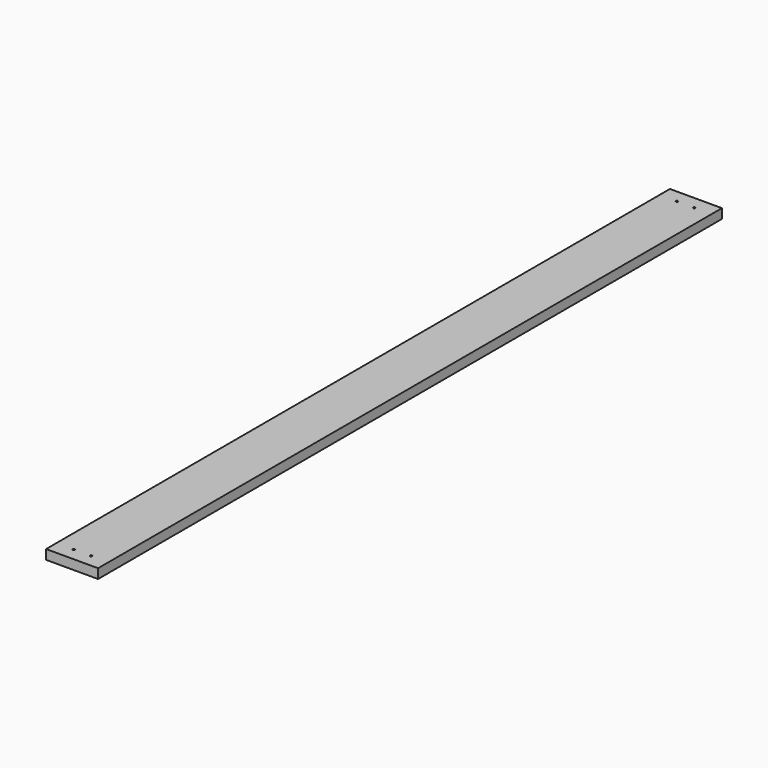
from build123d import *

# Parameters (mm, degrees)
F1_W     = 120
F1_H     = 1800
F2_DEPTH = 22
F4_D     = 5


with BuildPart() as f2:
    # F1 (on Top) → F2 (new body)
    with BuildSketch(Plane.XY):
        with Locations((0, 900)):
            Rectangle(F1_W, F1_H)
    extrude(amount=F2_DEPTH)

    # F4 (through all)
    with Locations(Plane.XY.offset(22)):
        with Locations((-20, 1770), (20, 1770), (-20, 30), (20, 30)):
            Hole(F4_D / 2)


solid = f2.part
